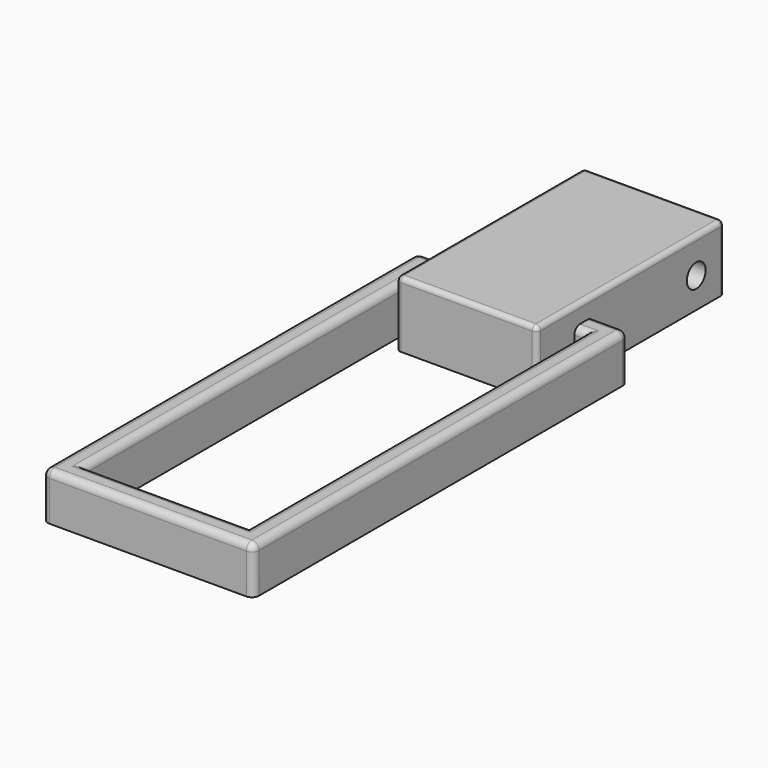
from build123d import *

# Parameters (mm, degrees)
F0_W     = 12
F0_H     = 20
F1_DEPTH = 5.6
F2_T     = -1.6
F3_W     = 18
F3_H     = 40
F3_W_2   = 14
F3_H_2   = 36
F4_DEPTH = 4
F5_R     = 0.4
F6_R     = 0.6
F7_R     = 0.2
F8_R     = 1
F9_DEPTH = 25


with BuildPart() as f1:
    # F0 (on Top) → F1 (new body)
    with BuildSketch(Plane.XY):
        Rectangle(F0_W, F0_H)
    extrude(amount=F1_DEPTH)

    # F2
    f2_openings = [f1.faces().sort_by_distance(p)[0] for p in [
        (0, 0, 0),
    ]]
    offset(amount=F2_T, openings=f2_openings)

    # F5
    f5_edges = [f1.edges().sort_by_distance(p)[0] for p in [
        (0, -10, 5.6),
        (6, 0, 5.6),
        (0, 10, 5.6),
        (-6, 0, 5.6),
        (-6, 10, 2.8),
        (-6, -10, 2.8),
        (6, -10, 2.8),
        (6, 10, 2.8),
    ]]
    fillet(f5_edges, radius=F5_R)

    # F8 (on face) → F9 (cut)
    with BuildSketch(Plane(origin=(-6, 0, 0), x_dir=(0, -1, 0), z_dir=(-1, 0, 0))):
        with Locations((-7, 2.6)):
            Circle(F8_R)
    extrude(amount=-F9_DEPTH, mode=Mode.SUBTRACT)


with BuildPart() as f4:
    # F3 (on Top) → F4 (new body)
    with BuildSketch(Plane.XY):
        with Locations((0, -24)):
            Rectangle(F3_W, F3_H)
        with Locations((0, -24)):
            Rectangle(F3_W_2, F3_H_2, mode=Mode.SUBTRACT)
    extrude(amount=F4_DEPTH)

    # F6
    f6_edges = [f4.edges().sort_by_distance(p)[0] for p in [
        (9, -24, 4),
        (0, -4, 4),
        (-9, -24, 4),
        (0, -44, 4),
        (0, -6, 4),
        (7, -24, 4),
        (0, -42, 4),
        (-7, -24, 4),
        (-9, -4, 2),
        (9, -4, 2),
        (9, -44, 2),
        (-9, -44, 2),
    ]]
    fillet(f6_edges, radius=F6_R)

    # F7
    f7_edges = [f4.edges().sort_by_distance(p)[0] for p in [
        (-7, -6, 1.7),
        (7, -6, 1.7),
        (-7, -42, 1.7),
        (7, -42, 1.7),
    ]]
    fillet(f7_edges, radius=F7_R)


solid = Compound([f1.part, f4.part])
